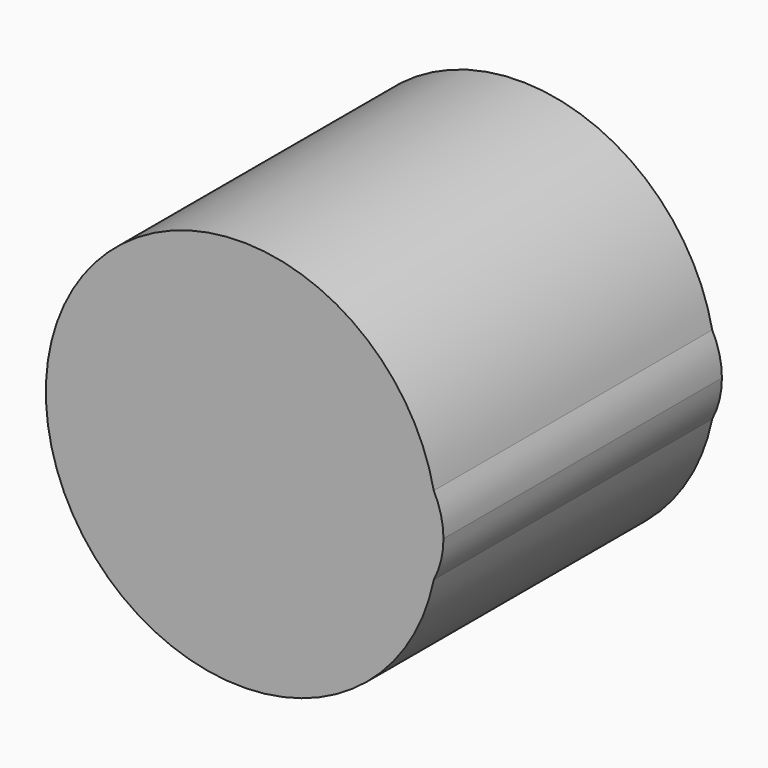
from build123d import *

# Parameters (mm, degrees)
F1_DEPTH = 152.4
F2_R     = 79.0376801061
F3_DEPTH = 152.4


with BuildPart() as f1:
    # F0 (on Front) → F1 (new body)
    with BuildSketch(Plane.XZ):
        with BuildLine():
            ThreePointArc((84.0562131993, -17.1691609262), (85.3567748158, -8.6283287698), (85.791765714, 0))
            ThreePointArc((85.791765714, 0), (85.3567748158, 8.6283287698), (84.0562131993, 17.1691609262))
            ThreePointArc((84.0562131993, 17.1691609262), (14.6167662884, 0), (84.0562131993, -17.1691609262))
        make_face()
        with BuildLine():
            ThreePointArc((84.0562131993, 17.1691609262), (85.3567748158, 8.6283287698), (85.791765714, 0))
            ThreePointArc((85.791765714, 0), (85.3567748158, -8.6283287698), (84.0562131993, -17.1691609262))
            ThreePointArc((84.0562131993, -17.1691609262), (87.2243246509, -8.8430946213), (88.30135195, 0))
            ThreePointArc((88.30135195, 0), (87.2243246509, 8.8430946213), (84.0562131993, 17.1691609262))
        make_face()
        with BuildLine():
            ThreePointArc((84.0562131993, -17.1691609262), (14.6167662884, 0), (84.0562131993, 17.1691609262))
            ThreePointArc((84.0562131993, 17.1691609262), (-85.791765714, 0), (84.0562131993, -17.1691609262))
        make_face()
    extrude(amount=F1_DEPTH)

    # F2 (on face) → F3 (join)
    with BuildSketch(Plane.XZ.offset(152.4)):
        Circle(F2_R)
    extrude(amount=-F3_DEPTH)


solid = f1.part
